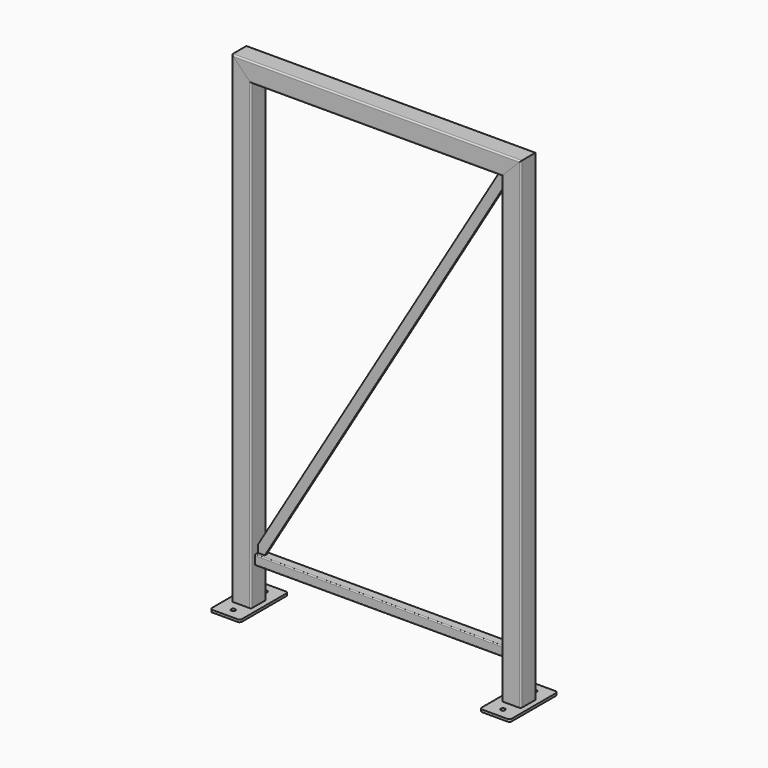
from build123d import *

# Parameters (mm, degrees)
F1_DEPTH  = 1000
F3_DEPTH  = 520
F5_DEPTH  = 80.001
F7_DEPTH  = 600
F9_DEPTH  = 80.001
F11_DEPTH = 5
F12_R     = 9
F13_DEPTH = 10


with BuildPart() as f1:
    # F0 (on Top) → F1 (new body, symmetric)
    with BuildSketch(Plane.XY):
        with BuildLine():
            ThreePointArc((-600, -34), (-598.2426406871, -38.2426406871), (-594, -40))
            Line((-594, -40), (-526, -40))
            ThreePointArc((-526, -40), (-521.7573593129, -38.2426406871), (-520, -34))
            Line((-520, -34), (-520, 34))
            ThreePointArc((-520, 34), (-521.7573593129, 38.2426406871), (-526, 40))
            Line((-526, 40), (-594, 40))
            ThreePointArc((-594, 40), (-598.2426406871, 38.2426406871), (-600, 34))
            Line((-600, 34), (-600, -34))
        make_face()
        with BuildLine():
            ThreePointArc((-597, 34), (-596.1213203436, 36.1213203436), (-594, 37))
            Line((-594, 37), (-526, 37))
            ThreePointArc((-526, 37), (-523.8786796564, 36.1213203436), (-523, 34))
            Line((-523, 34), (-523, -34))
            ThreePointArc((-523, -34), (-523.8786796564, -36.1213203436), (-526, -37))
            Line((-526, -37), (-594, -37))
            ThreePointArc((-594, -37), (-596.1213203436, -36.1213203436), (-597, -34))
            Line((-597, -34), (-597, 34))
        make_face(mode=Mode.SUBTRACT)
    extrude(amount=F1_DEPTH, both=True)


with BuildPart() as f1b:
    # F0 (on Top) → F1, piece 2 (new body, symmetric)
    with BuildSketch(Plane.XY):
        with BuildLine():
            ThreePointArc((594, -40), (598.2426406871, -38.2426406871), (600, -34))
            Line((600, -34), (600, 34))
            ThreePointArc((600, 34), (598.2426406871, 38.2426406871), (594, 40))
            Line((594, 40), (526, 40))
            ThreePointArc((526, 40), (521.7573593129, 38.2426406871), (520, 34))
            Line((520, 34), (520, -34))
            ThreePointArc((520, -34), (521.7573593129, -38.2426406871), (526, -40))
            Line((526, -40), (594, -40))
        make_face()
        with BuildLine():
            Line((526, 37), (594, 37))
            ThreePointArc((594, 37), (596.1213203436, 36.1213203436), (597, 34))
            Line((597, 34), (597, -34))
            ThreePointArc((597, -34), (596.1213203436, -36.1213203436), (594, -37))
            Line((594, -37), (526, -37))
            ThreePointArc((526, -37), (523.8786796564, -36.1213203436), (523, -34))
            Line((523, -34), (523, 34))
            ThreePointArc((523, 34), (523.8786796564, 36.1213203436), (526, 37))
        make_face(mode=Mode.SUBTRACT)
    extrude(amount=F1_DEPTH, both=True)


with BuildPart() as f3:
    # F2 (on Right) → F3 (new body, symmetric)
    with BuildSketch(Plane.YZ):
        with BuildLine():
            ThreePointArc((-20, -846), (-18.8284271247, -848.8284271247), (-16, -850))
            Line((-16, -850), (16, -850))
            ThreePointArc((16, -850), (18.8284271247, -848.8284271247), (20, -846))
            Line((20, -846), (20, -814))
            ThreePointArc((20, -814), (18.8284271247, -811.1715728753), (16, -810))
            Line((16, -810), (-16, -810))
            ThreePointArc((-16, -810), (-18.8284271247, -811.1715728753), (-20, -814))
            Line((-20, -814), (-20, -846))
        make_face()
        with BuildLine():
            ThreePointArc((-18, -814), (-17.4142135624, -812.5857864376), (-16, -812))
            Line((-16, -812), (16, -812))
            ThreePointArc((16, -812), (17.4142135624, -812.5857864376), (18, -814))
            Line((18, -814), (18, -846))
            ThreePointArc((18, -846), (17.4142135624, -847.4142135624), (16, -848))
            Line((16, -848), (-16, -848))
            ThreePointArc((-16, -848), (-17.4142135624, -847.4142135624), (-18, -846))
            Line((-18, -846), (-18, -814))
        make_face(mode=Mode.SUBTRACT)
    extrude(amount=F3_DEPTH, both=True)


with BuildPart() as f5_tool:
    # F4 (on face) → F5 (new body, through all)
    with BuildSketch(Plane.XZ.offset(40)):
        Polygon((-520, 1000), (-600, 1000), (-520, 920), align=None)
        Polygon((520, 920), (600, 1000), (520, 1000), align=None)
    extrude(amount=-F5_DEPTH)


with BuildPart() as f1_1:
    add(f1.part)

    # F5: cut by f5_tool
    add(f5_tool.part, mode=Mode.SUBTRACT)


with BuildPart() as f1b_1:
    add(f1b.part)

    # F5: cut by f5_tool
    add(f5_tool.part, mode=Mode.SUBTRACT)


with BuildPart() as f7:
    # F6 (on Right) → F7 (new body, symmetric)
    with BuildSketch(Plane.YZ):
        with BuildLine():
            ThreePointArc((40, 994), (38.2426406871, 998.2426406871), (34, 1000))
            Line((34, 1000), (-34, 1000))
            ThreePointArc((-34, 1000), (-38.2426406871, 998.2426406871), (-40, 994))
            Line((-40, 994), (-40, 926))
            ThreePointArc((-40, 926), (-38.2426406871, 921.7573593129), (-34, 920))
            Line((-34, 920), (34, 920))
            ThreePointArc((34, 920), (38.2426406871, 921.7573593129), (40, 926))
            Line((40, 926), (40, 994))
        make_face()
        with BuildLine():
            ThreePointArc((34, 997), (36.1213203436, 996.1213203436), (37, 994))
            Line((37, 994), (37, 926))
            ThreePointArc((37, 926), (36.1213203436, 923.8786796564), (34, 923))
            Line((34, 923), (-34, 923))
            ThreePointArc((-34, 923), (-36.1213203436, 923.8786796564), (-37, 926))
            Line((-37, 926), (-37, 994))
            ThreePointArc((-37, 994), (-36.1213203436, 996.1213203436), (-34, 997))
            Line((-34, 997), (34, 997))
        make_face(mode=Mode.SUBTRACT)
    extrude(amount=F7_DEPTH, both=True)

    # F8 (on face) → F9 (cut, through all)
    with BuildSketch(Plane.XZ.offset(40)):
        Polygon((-600, 1000), (-600, 920), (-520, 920), align=None)
        Polygon((600, 1000), (520, 920), (600, 920), align=None)
    extrude(amount=-F9_DEPTH, mode=Mode.SUBTRACT)


with BuildPart() as f11:
    # F10 (on Front) → F11 (new body, symmetric)
    with BuildSketch(Plane.XZ):
        Polygon((520, 920), (490.8143913183, 920), (-520, -780.8143913183), (-520, -810), (-490.8143913183, -810), (520, 890.8143913183), align=None)
    extrude(amount=F11_DEPTH, both=True)


with BuildPart() as f13:
    # F12 (on face) → F13 (new body)
    with BuildSketch(Plane(origin=(0, 0, -1000), x_dir=(1, 0, 0), z_dir=(0, 0, -1))):
        with BuildLine():
            Line((-612.5, -125), (-507.5, -125))
            ThreePointArc((-507.5, -125), (-500.4289321881, -122.0710678119), (-497.5, -115))
            Line((-497.5, -115), (-497.5, 115))
            ThreePointArc((-497.5, 115), (-500.4289321881, 122.0710678119), (-507.5, 125))
            Line((-507.5, 125), (-612.5, 125))
            ThreePointArc((-612.5, 125), (-619.5710678119, 122.0710678119), (-622.5, 115))
            Line((-622.5, 115), (-622.5, -115))
            ThreePointArc((-622.5, -115), (-619.5710678119, -122.0710678119), (-612.5, -125))
        make_face()
        with Locations((-560, -82.5)):
            Circle(F12_R, mode=Mode.SUBTRACT)
        with Locations((-560, 82.5)):
            Circle(F12_R, mode=Mode.SUBTRACT)
    extrude(amount=F13_DEPTH)


with BuildPart() as f14_1:
    # F14: instance of F13
    add(f13.part.mirror(Plane.YZ))


solid = Compound([f3.part, f1_1.part, f1b_1.part, f7.part, f11.part, f13.part, f14_1.part])
